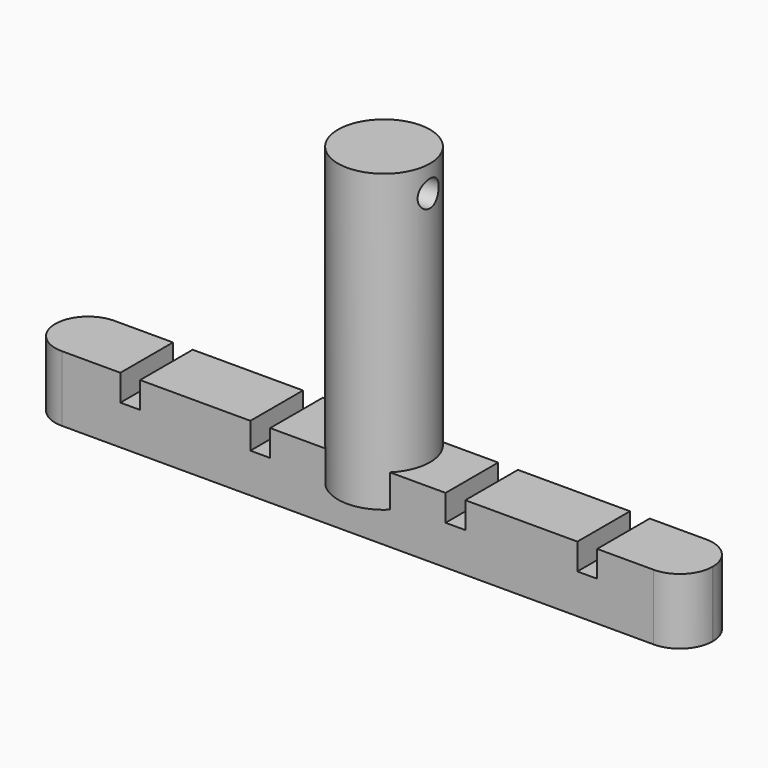
from build123d import *

# Parameters (mm, degrees)
SKETCH003_R   = 2
PAD002_DEPTH  = 10
SKETCH_R      = 7
PAD_DEPTH     = 45
SKETCH001_W   = 100
SKETCH001_H   = 10
PAD001_DEPTH  = 5
FILLET_R      = 4.99
SKETCH002_W   = 3
SKETCH002_H   = 13.521623
SKETCH002_H_2 = 14.821778
SKETCH002_H_3 = 14.691763
POCKET_DEPTH  = 4


with BuildPart() as pad002:
    # Sketch003 → Pad002 (new body, symmetric)
    with BuildSketch(Plane(origin=(0, 0, -4), x_dir=(0, 0, -1), z_dir=(1, 0, 0))):
        Circle(SKETCH003_R)
    extrude(amount=PAD002_DEPTH, both=True)


with BuildPart() as cut:
    # Sketch → Pad (new body)
    with BuildSketch(Plane.XY):
        Circle(SKETCH_R)
    extrude(amount=-PAD_DEPTH)

    # Cut: cut Pad002
    add(pad002.part, mode=Mode.SUBTRACT)


with BuildPart() as obj1:
    # Sketch001 → Pad001 (new body, symmetric)
    with BuildSketch(Plane.XY.offset(-45)):
        Rectangle(SKETCH001_W, SKETCH001_H)
    extrude(amount=PAD001_DEPTH, both=True)

    # Fillet
    fillet_edges = [obj1.edges().sort_by_distance(p)[0] for p in [
        (-50, 5, -45),
        (-50, -5, -45),
        (50, 5, -45),
        (50, -5, -45),
    ]]
    fillet(fillet_edges, radius=FILLET_R)

    # Sketch002 → Pocket (cut)
    with BuildSketch(Plane.XY.offset(-40)):
        with Locations((-34.600117, -0.008592)):
            Rectangle(SKETCH002_W, SKETCH002_H)
        with Locations((-14.823811, -0.528653)):
            Rectangle(SKETCH002_W, SKETCH002_H_2)
        with Locations((14.868009, -0.33363)):
            Rectangle(SKETCH002_W, SKETCH002_H_3)
        with Locations((34.916373, -0.463645)):
            Rectangle(SKETCH002_W, SKETCH002_H_3)
    extrude(amount=-POCKET_DEPTH, mode=Mode.SUBTRACT)

    # Fusion: union Cut
    add(cut.part)


solid = obj1.part
